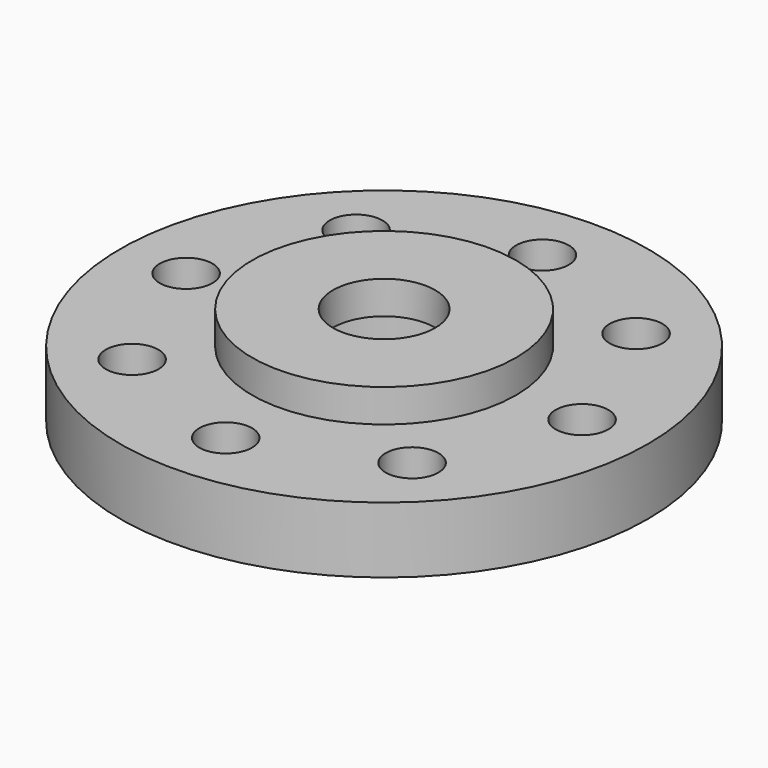
from build123d import *

# Parameters (mm, degrees)
F0_R     = 4.5
F0_R_2   = 3
F1_DEPTH = 1.2
F2_R     = 8
F2_R_2   = 0.8
F2_R_3   = 4.5
F2_R_4   = 3
F3_DEPTH = 2
F4_R     = 4
F4_R_2   = 1.55
F5_DEPTH = 1


with BuildPart() as f1:
    # F0 (on Top) → F1 (new body)
    with BuildSketch(Plane.XY):
        Circle(F0_R)
        Circle(F0_R_2, mode=Mode.SUBTRACT)
    extrude(amount=F1_DEPTH)

    # F2 (on face) → F3 (join)
    with BuildSketch(Plane.XY.offset(1.2)):
        Circle(F2_R)
        with Locations((-4.2426406871, -4.2426406871)):
            Circle(F2_R_2, mode=Mode.SUBTRACT)
        with Locations((0, -6)):
            Circle(F2_R_2, mode=Mode.SUBTRACT)
        with Locations((4.2426406871, -4.2426406871)):
            Circle(F2_R_2, mode=Mode.SUBTRACT)
        with Locations((-6, 0)):
            Circle(F2_R_2, mode=Mode.SUBTRACT)
        with Locations((-4.2426406871, 4.2426406871)):
            Circle(F2_R_2, mode=Mode.SUBTRACT)
        Circle(F2_R_3, mode=Mode.SUBTRACT)
        with Locations((6, 0)):
            Circle(F2_R_2, mode=Mode.SUBTRACT)
        with Locations((0, 6)):
            Circle(F2_R_2, mode=Mode.SUBTRACT)
        with Locations((4.2426406871, 4.2426406871)):
            Circle(F2_R_2, mode=Mode.SUBTRACT)
        Circle(F2_R_3)
        Circle(F2_R_4, mode=Mode.SUBTRACT)
    extrude(amount=F3_DEPTH)

    # F4 (on face) → F5 (join)
    with BuildSketch(Plane.XY.offset(3.2)):
        Circle(F4_R)
        Circle(F4_R_2, mode=Mode.SUBTRACT)
    extrude(amount=F5_DEPTH)


solid = f1.part
